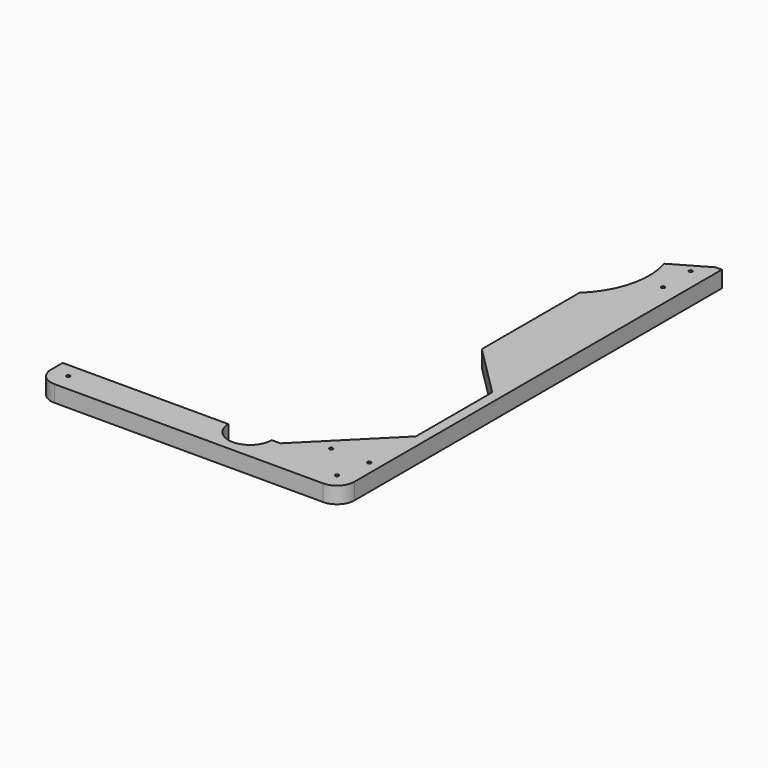
from build123d import *

# Parameters (mm, degrees)
PAD013_DEPTH             = 19
FILLET001_R              = 20
SKETCH022_R              = 2
POCKET013_DEPTH          = 19.001
SKETCH027_R              = 2
POCKET017_DEPTH          = 19.001
SKETCH069_R              = 2
POCKET044_DEPTH          = 19.001
CLONE001_PLACEMENT_ANGLE = 90


with BuildPart() as part:
    # Sketch015 → Pad013 (new body)
    with BuildSketch(Plane.XY):
        with BuildLine():
            Line((-275, 216.2), (-238, 216.2))
            Line((-238, 216.2), (-238, 25))
            ThreePointArc((-238, 25), (-263, 0), (-238, -25))
            Line((-238, -25), (-238, -35))
            Line((-238, -35), (-151.2, -121.8))
            Line((-151.2, -121.8), (-41.2, -121.8))
            Line((-41.2, -121.8), (18.8, -61.8))
            Line((159.572483, -61.8), (18.8, -61.8))
            ThreePointArc((159.572483, -61.8), (202.10651, -87.039578), (251.554314, -85.993421))
            Line((251.554314, -85.993421), (275, -126.60254))
            Line((275, -126.60254), (275, -133.8))
            Line((275, -133.8), (-275, -133.8))
            Line((-275, -133.8), (-275, 216.2))
        make_face()
    extrude(amount=PAD013_DEPTH)

    # Fillet001
    fillet001_edges = [part.edges().sort_by_distance(p)[0] for p in [
        (-275, 216.2, 9.5),
        (-275, -133.8, 9.5),
    ]]
    fillet(fillet001_edges, radius=FILLET001_R)

    # Sketch022 (on Face5 of Fillet001) → Pocket013 (cut, through all)
    with BuildSketch(Plane.XY.offset(19)):
        with Locations((-255, 196.2)):
            Circle(SKETCH022_R)
        with Locations((-255, -113.8)):
            Circle(SKETCH022_R)
        with Locations((215, -113.8)):
            Circle(SKETCH022_R)
    extrude(amount=-POCKET013_DEPTH, mode=Mode.SUBTRACT)

    # Sketch027 (on Face5 of Pocket013) → Pocket017 (cut, through all)
    with BuildSketch(Plane.XY.offset(19)):
        with Locations((255, -113.8)):
            Circle(SKETCH027_R)
    extrude(amount=-POCKET017_DEPTH, mode=Mode.SUBTRACT)

    # Sketch069 (on Face5 of Pocket017) → Pocket044 (cut, through all)
    with BuildSketch(Plane.XY.offset(19)):
        with Locations((-217.5, -77)):
            Circle(SKETCH069_R)
        with Locations((-217.5, -121)):
            Circle(SKETCH069_R)
    extrude(amount=-POCKET044_DEPTH, mode=Mode.SUBTRACT)


with BuildPart() as part_1:
    # Body009 placement: moved
    add(part.part.moved(Location((0, 0, -9))))


with BuildPart() as part_2:
    # Clone001 placement: moved
    add(part_1.part.moved(Location((216.2, 275, -10))).rotate(Axis((216.2, 275, -10), (0, 0, 1)), CLONE001_PLACEMENT_ANGLE))


solid = part_2.part
